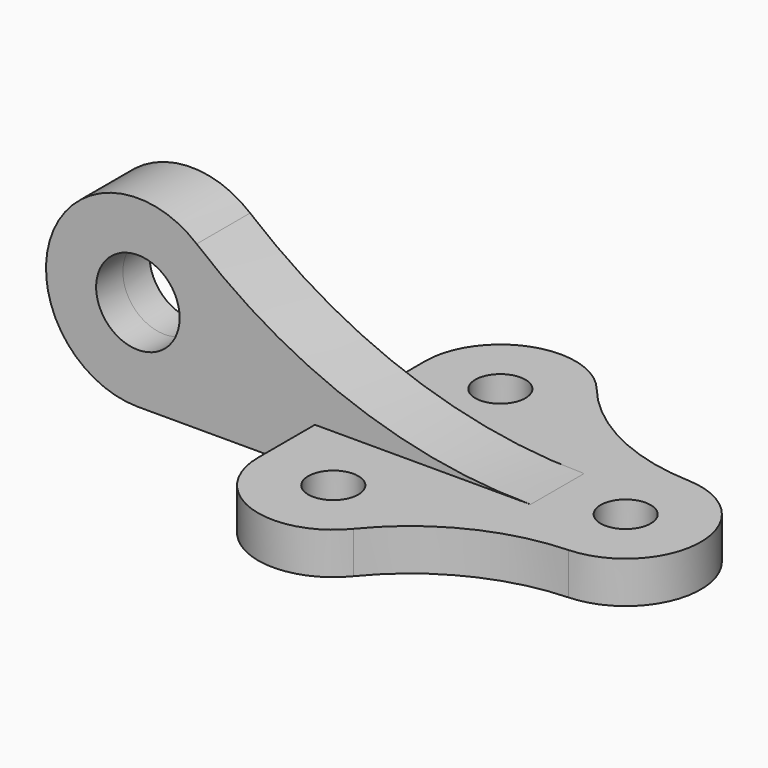
from build123d import *

# Parameters (mm, degrees)
F0_R          = 6
F1_DEPTH      = 10
F2_R          = 10
F3_DEPTH      = 8
F3_DEPTH_BACK = 8


with BuildPart() as f1:
    # F0 (on Top) → F1 (new body)
    with BuildSketch(Plane.XY):
        with BuildLine():
            ThreePointArc((50.720724, 17.985565), (30.362055, 23.224109), (13.956018, 36.367918))
            ThreePointArc((13.956018, 36.367918), (-6.032896, 41.958896), (-18, 25))
            Line((-18, 25), (-18, -25))
            ThreePointArc((-18, -25), (-6.032896, -41.958896), (13.956018, -36.367918))
            ThreePointArc((13.956018, -36.367918), (30.362055, -23.224109), (50.720724, -17.985565))
            ThreePointArc((50.720724, -17.985565), (68, 0), (50.720724, 17.985565))
        make_face()
        with Locations((0, -25)):
            Circle(F0_R, mode=Mode.SUBTRACT)
        with Locations((0, 25)):
            Circle(F0_R, mode=Mode.SUBTRACT)
        with Locations((50, 0)):
            Circle(F0_R, mode=Mode.SUBTRACT)
    extrude(amount=F1_DEPTH)

    # F2 (on Front) → F3 (join, two sides)
    with BuildSketch(Plane.XZ) as f3_sk:
        with BuildLine():
            ThreePointArc((33.633398, 10), (-8.875104, 17.449895), (-46.316665, 38.911565))
            ThreePointArc((-46.316665, 38.911565), (-81.076694, 29.481496), (-60.387876, 0))
            Line((-60.387876, 0), (33.633398, 0))
            Line((33.633398, 0), (33.633398, 10))
        make_face()
        with Locations((-60.387876, 22)):
            Circle(F2_R, mode=Mode.SUBTRACT)
    extrude(amount=F3_DEPTH)
    extrude(f3_sk.sketch, amount=-F3_DEPTH_BACK)


solid = f1.part
